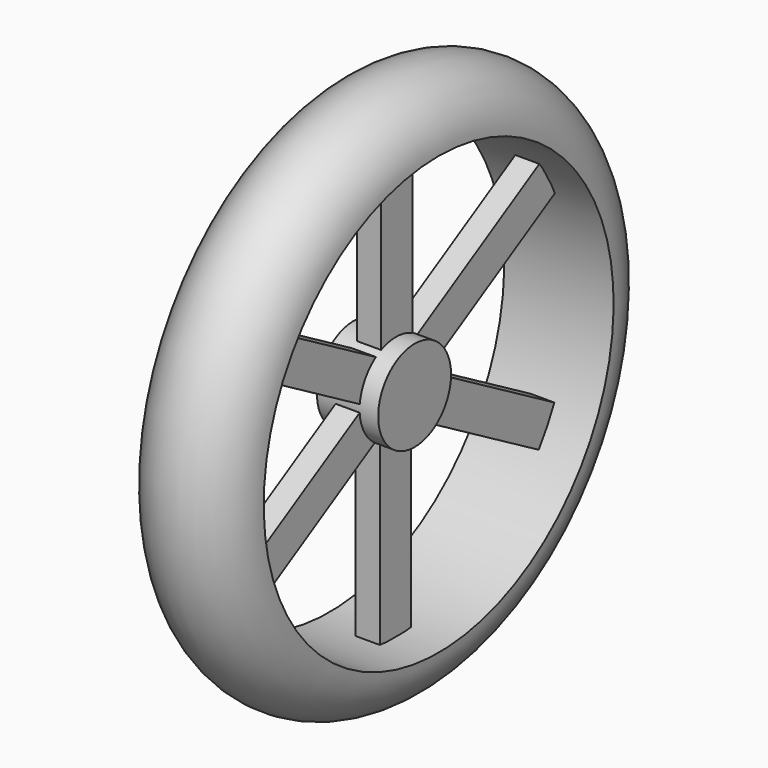
from build123d import *

# Parameters (mm, degrees)
F2_R     = 10.579111
F3_DEPTH = 7.112
F4_W     = 9.0429
F4_H     = 46.590587
F5_DEPTH = 2.794
F6_COUNT = 6


with BuildPart() as f1:
    # F0 (on Front) → F1 (revolve)
    with BuildSketch(Plane.XZ):
        with BuildLine():
            Line((-12.7, 50.8), (12.7, 50.8))
            ThreePointArc((12.7, 50.8), (0, 63.5), (-12.7, 50.8))
        make_face()
    revolve(axis=Axis((0.529167, 0, 0), (1, 0, 0)))


with BuildPart() as f3:
    # F2 (on Right) → F3 (new body, symmetric)
    with BuildSketch(Plane.YZ):
        Circle(F2_R)
    extrude(amount=F3_DEPTH, both=True)


with BuildPart() as f5:
    # F4 (on Right) → F5 (new body, symmetric)
    with BuildSketch(Plane.YZ):
        with Locations((-0.196584, -30.372344)):
            Rectangle(F4_W, F4_H)
    extrude(amount=F5_DEPTH, both=True)


with BuildPart() as f6_1:
    # F6: instance of F5
    add(f5.part.rotate(Axis((7.112, 0, 0), (1, 0, 0)), 1 * 360 / F6_COUNT))


with BuildPart() as f6_2:
    # F6: instance of F5
    add(f5.part.rotate(Axis((7.112, 0, 0), (1, 0, 0)), 2 * 360 / F6_COUNT))


with BuildPart() as f6_3:
    # F6: instance of F5
    add(f5.part.rotate(Axis((7.112, 0, 0), (1, 0, 0)), 3 * 360 / F6_COUNT))


with BuildPart() as f6_4:
    # F6: instance of F5
    add(f5.part.rotate(Axis((7.112, 0, 0), (1, 0, 0)), 4 * 360 / F6_COUNT))


with BuildPart() as f6_5:
    # F6: instance of F5
    add(f5.part.rotate(Axis((7.112, 0, 0), (1, 0, 0)), 5 * 360 / F6_COUNT))


solid = Compound([f1.part, f3.part, f5.part, f6_1.part, f6_2.part, f6_3.part, f6_4.part, f6_5.part])
